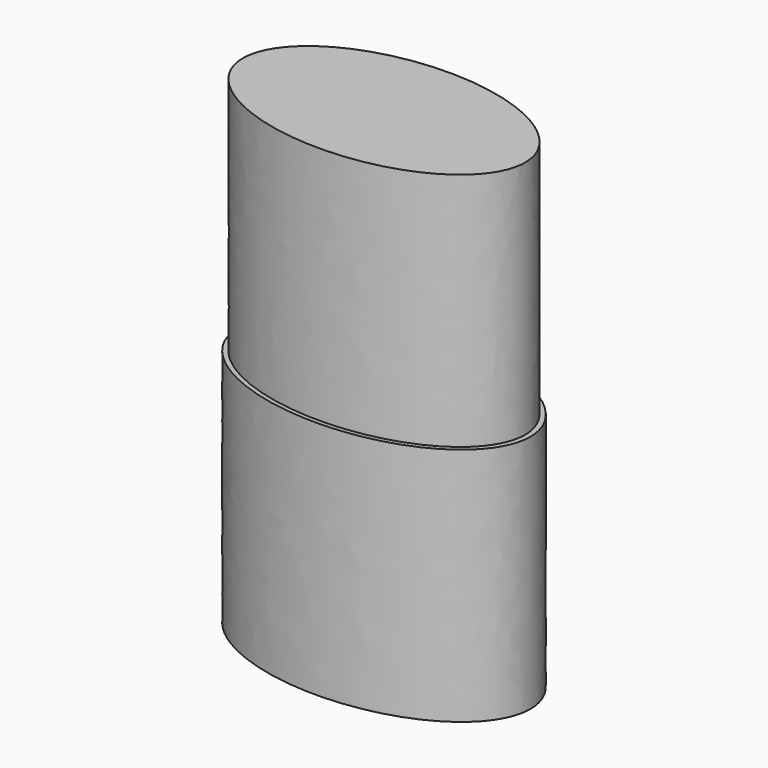
from build123d import *

# Parameters (mm, degrees)
F1_DEPTH = 10
F3_DEPTH = 10


with BuildPart() as f1:
    # F0 (on Top) → F1 (new body)
    with BuildSketch(Plane.XY):
        with BuildLine():
            add(Edge.make_bspline(
                [(6.11, 0), (6.11, 6.218062), (-3.055, 3.109031), (-12.22, 0), (-3.055, -3.109031), (6.11, -6.218062), (6.11, 0)],
                knots=[0, 0, 0, 2.094395, 2.094395, 4.18879, 4.18879, 6.283185, 6.283185, 6.283185], degree=2, weights=[1, 0.5, 1, 0.5, 1, 0.5, 1]))
        make_face()
    extrude(amount=F1_DEPTH)

    # F2 (on face) → F3 (join)
    with BuildSketch(Plane.XY.offset(10)):
        with BuildLine():
            add(Edge.make_bspline(
                [(5.89, 0), (5.89, 5.906293), (-2.945, 2.953147), (-11.78, 0), (-2.945, -2.953147), (5.89, -5.906293), (5.89, 0)],
                knots=[0, 0, 0, 2.094395, 2.094395, 4.18879, 4.18879, 6.283185, 6.283185, 6.283185], degree=2, weights=[1, 0.5, 1, 0.5, 1, 0.5, 1]))
        make_face()
    extrude(amount=F3_DEPTH)


solid = f1.part
